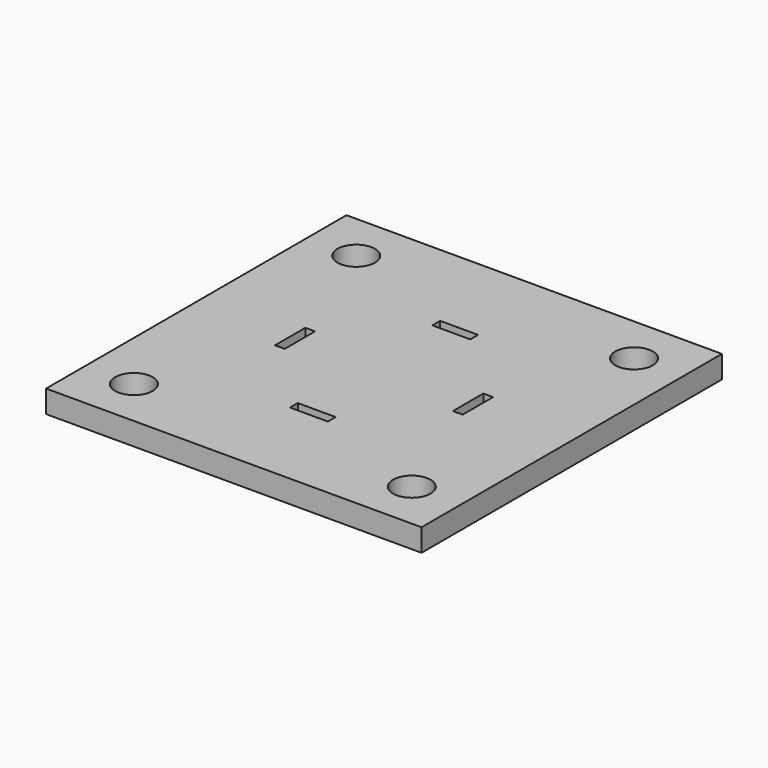
from build123d import *

# Parameters (mm, degrees)
F0_W     = 100
F0_H     = 100
F0_R     = 5
F0_W_2   = 10.1
F0_H_2   = 2.6
F0_W_3   = 2.6
F0_H_3   = 10.1
F1_DEPTH = 6


with BuildPart() as f1:
    # F0 (on Top) → F1 (new body)
    with BuildSketch(Plane.XY):
        Rectangle(F0_W, F0_H)
        with Locations((-37, -37)):
            Circle(F0_R, mode=Mode.SUBTRACT)
        with Locations((37, -37)):
            Circle(F0_R, mode=Mode.SUBTRACT)
        with Locations((0, -23.7)):
            Rectangle(F0_W_2, F0_H_2, mode=Mode.SUBTRACT)
        with Locations((-23.7, 0)):
            Rectangle(F0_W_3, F0_H_3, mode=Mode.SUBTRACT)
        with Locations((-37, 37)):
            Circle(F0_R, mode=Mode.SUBTRACT)
        with Locations((23.7, 0)):
            Rectangle(F0_W_3, F0_H_3, mode=Mode.SUBTRACT)
        with Locations((0, 23.7)):
            Rectangle(F0_W_2, F0_H_2, mode=Mode.SUBTRACT)
        with Locations((37, 37)):
            Circle(F0_R, mode=Mode.SUBTRACT)
    extrude(amount=F1_DEPTH)


solid = f1.part
